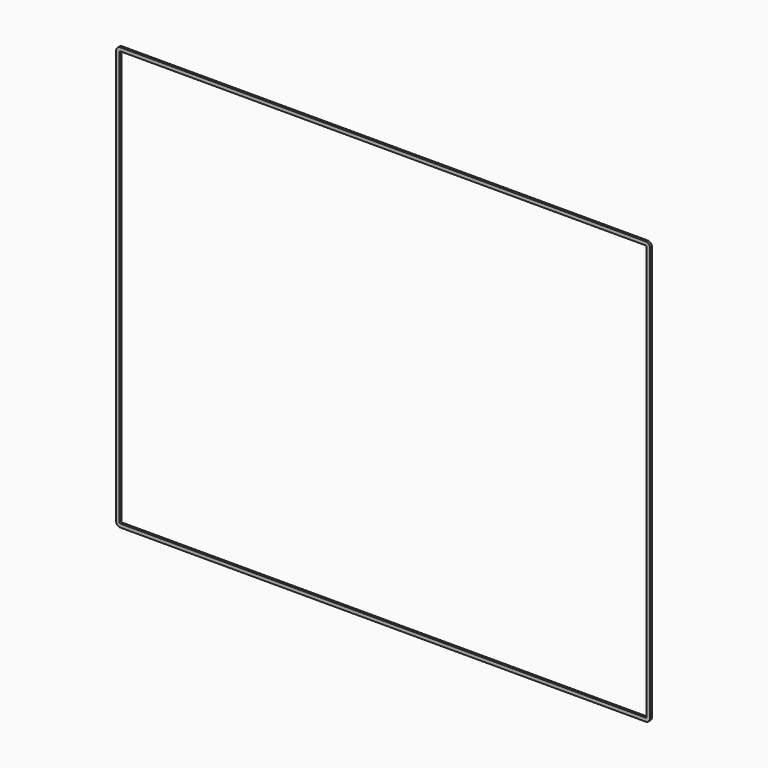
from build123d import *

# Parameters (mm, degrees)
F0_W     = 240
F0_H     = 190
F1_DEPTH = 1
F2_R     = 2
F3_T     = -1.6


with BuildPart() as f1:
    # F0 (on Front) → F1 (new body)
    with BuildSketch(Plane.XZ):
        Rectangle(F0_W, F0_H)
    extrude(amount=F1_DEPTH)

    # F2
    f2_edges = [f1.edges().sort_by_distance(p)[0] for p in [
        (120, -0.5, 95),
        (-120, -0.5, 95),
        (-120, -0.5, -95),
        (120, -0.5, -95),
    ]]
    fillet(f2_edges, radius=F2_R)

    # F3
    f3_openings = [f1.faces().sort_by_distance(p)[0] for p in [
        (0, 0, 0),
        (0, -1, 0),
    ]]
    offset(amount=F3_T, openings=f3_openings)


solid = f1.part
